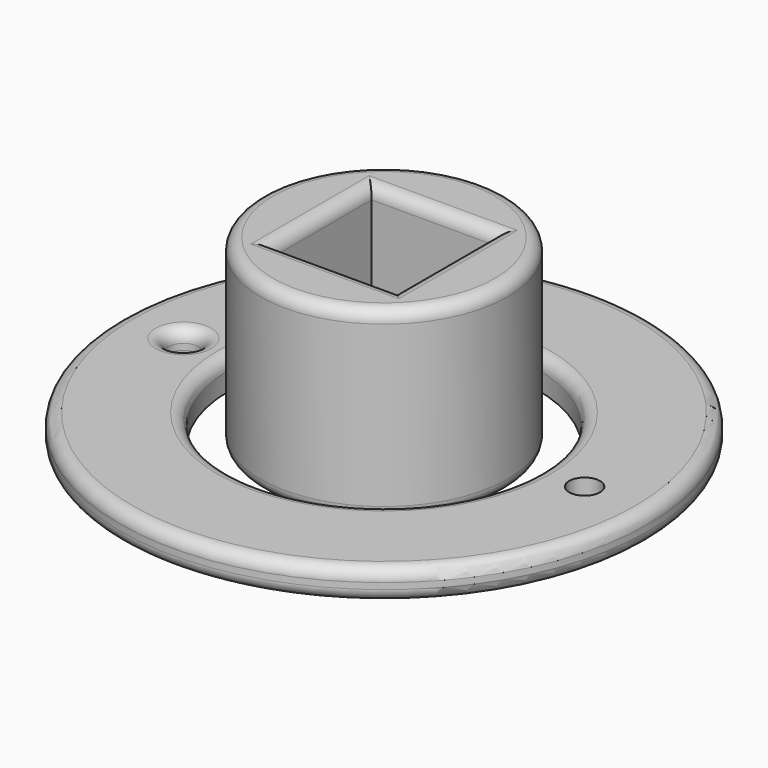
from build123d import *

# Parameters (mm, degrees)
F0_R     = 42.79066
F0_R_2   = 2.5
F0_R_3   = 25
F1_DEPTH = 5
F0_R_4   = 20
F0_W     = 20
F0_H     = 20
F2_DEPTH = 30
F3_R     = 2
F3_2_R   = 2


with BuildPart() as f1:
    # F0 (on Top) → F1 (new body)
    with BuildSketch(Plane.XY):
        Circle(F0_R)
        with Locations((-32.5, 0)):
            Circle(F0_R_2, mode=Mode.SUBTRACT)
        Circle(F0_R_3, mode=Mode.SUBTRACT)
        with Locations((32.5, 0)):
            Circle(F0_R_2, mode=Mode.SUBTRACT)
    extrude(amount=F1_DEPTH)

    # F3
    f3_edges = [f1.edges().sort_by_distance(p)[0] for p in [
        (-42.79066, 0, 0),
        (-42.79066, 0, 5),
        (-25, 0, 5),
        (-35, 0, 5),
        (-35, 0, 0),
        (30, 0, 0),
    ]]
    fillet(f3_edges, radius=F3_R)


with BuildPart() as f2:
    # F0 (on Top) → F2 (new body)
    with BuildSketch(Plane.XY):
        Circle(F0_R_4)
        Rectangle(F0_W, F0_H, mode=Mode.SUBTRACT)
    extrude(amount=F2_DEPTH)

    # F3#2
    f3_2_edges = [f2.edges().sort_by_distance(p)[0] for p in [
        (-20, 0, 30),
        (-20, 0, 0),
        (0, 10, 30),
        (-10, 0, 30),
        (0, -10, 30),
        (10, 0, 30),
        (0, 10, 0),
        (10, 0, 0),
        (-10, 0, 0),
        (0, -10, 0),
    ]]
    fillet(f3_2_edges, radius=F3_2_R)


solid = Compound([f1.part, f2.part])
